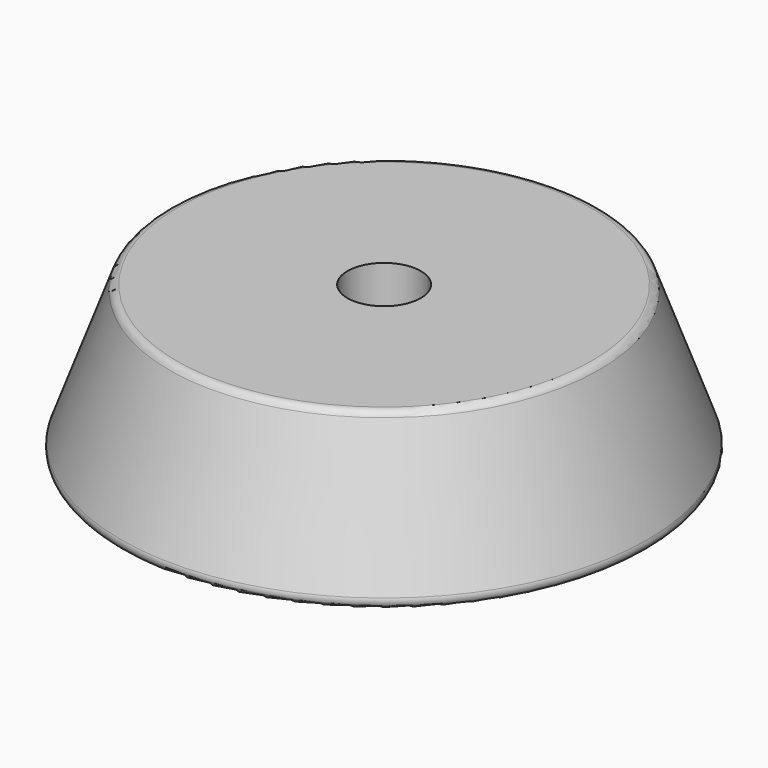
from build123d import *

# Parameters (mm, degrees)
F0_R     = 25
F1_DEPTH = 14
F1_TAPER = 20
F3_D     = 6.858
F4_R     = 0.762


with BuildPart() as f1:
    # F0 (on Top) → F1 (new body)
    with BuildSketch(Plane.XY):
        Circle(F0_R)
    extrude(amount=F1_DEPTH, taper=F1_TAPER)

    # F3 (through all)
    with Locations(Plane.XY.offset(14)):
        with Locations((0, 0)):
            Hole(F3_D / 2)

    # F4
    f4_edges = [f1.edges().sort_by_distance(p)[0] for p in [
        (-19.904417, 0, 14),
        (-25, 0, 0),
    ]]
    fillet(f4_edges, radius=F4_R)


solid = f1.part
